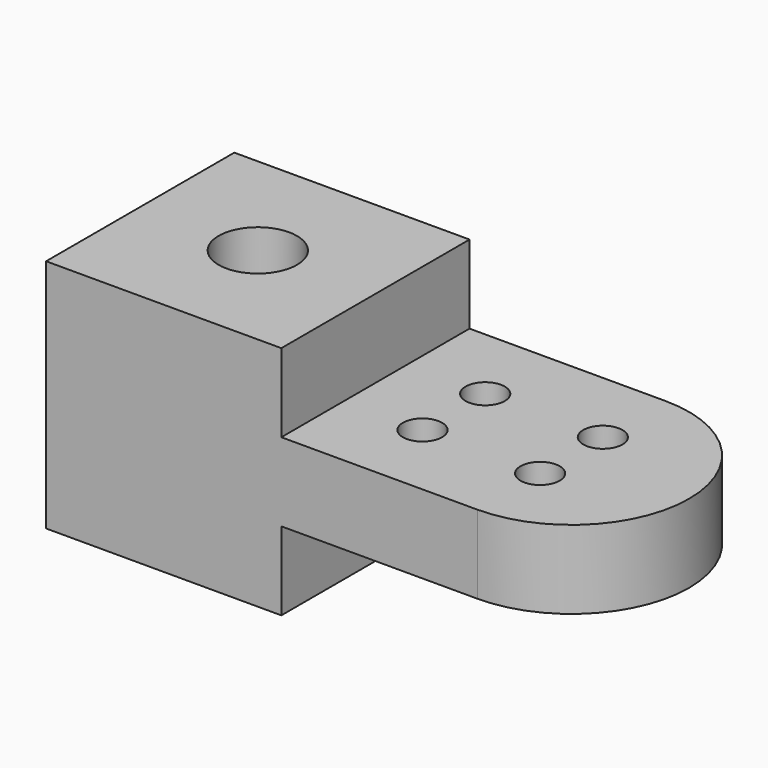
from build123d import *

# Parameters (mm, degrees)
F0_R     = 3.175
F1_DEPTH = 12.7
F0_W     = 38.1
F0_H     = 38.1
F0_R_2   = 6.35
F2_DEPTH = 25.4
F3_DEPTH = 12.7


with BuildPart() as f1:
    # F0 (on Top) → F1 (new body)
    with BuildSketch(Plane.XY):
        with BuildLine():
            Line((38.1, 38.1), (38.1, 0))
            Line((38.1, 0), (69.85, 0))
            ThreePointArc((69.85, 0), (88.9, 19.05), (69.85, 38.1))
            Line((69.85, 38.1), (38.1, 38.1))
        make_face()
        with Locations((50.8, 12.7)):
            Circle(F0_R, mode=Mode.SUBTRACT)
        with Locations((69.85, 12.7)):
            Circle(F0_R, mode=Mode.SUBTRACT)
        with Locations((50.8, 25.4)):
            Circle(F0_R, mode=Mode.SUBTRACT)
        with Locations((69.85, 25.4)):
            Circle(F0_R, mode=Mode.SUBTRACT)
    extrude(amount=F1_DEPTH)

    # F0 (on Top) → F2 (join)
    with BuildSketch(Plane.XY):
        with Locations((19.05, 19.05)):
            Rectangle(F0_W, F0_H)
        with Locations((19.0474372357, 19.05)):
            Circle(F0_R_2, mode=Mode.SUBTRACT)
    extrude(amount=F2_DEPTH)

    # F0 (on Top) → F3 (join)
    with BuildSketch(Plane.XY):
        with Locations((19.05, 19.05)):
            Rectangle(F0_W, F0_H)
        with Locations((19.0474372357, 19.05)):
            Circle(F0_R_2, mode=Mode.SUBTRACT)
    extrude(amount=-F3_DEPTH)


solid = f1.part
